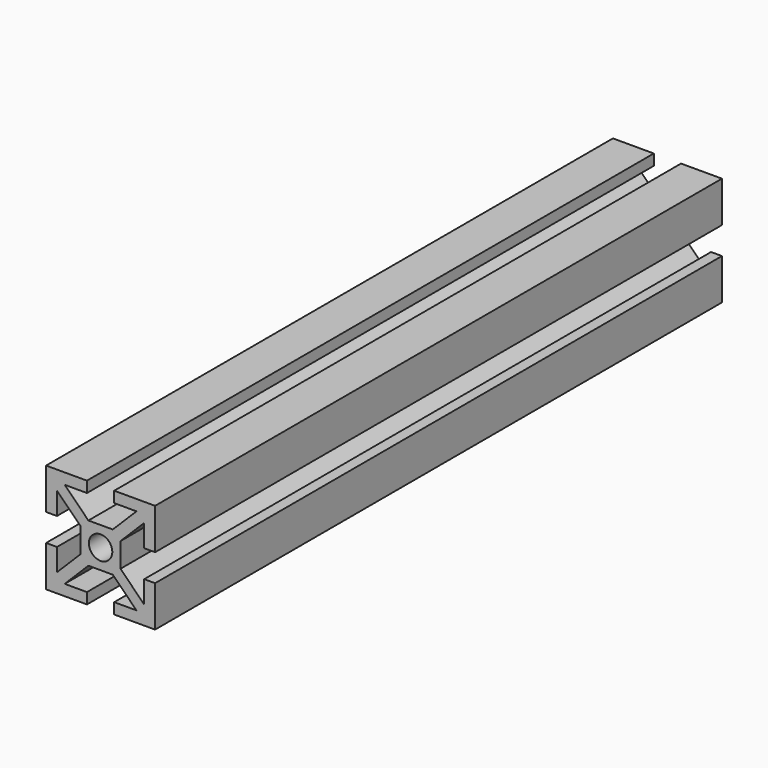
from build123d import *

# Parameters (mm, degrees)
F1_DEPTH      = 65
F1_DEPTH_BACK = 65


with BuildPart() as f1:
    # F0 (on Front) → F1 (new body, two sides)
    with BuildSketch(Plane.XZ) as f1_sk:
        Polygon((-2.238045, 9.768403), (-9.738045, 9.768403), (-9.738045, 2.268403), (-7.738045, 2.268403), (-7.738045, 6.35419), (-3.388045, 2.00419), (-3.388045, -0.231597), (-3.388045, -2.467383), (-7.738045, -6.817383), (-7.738045, -2.731597), (-9.738045, -2.731597), (-9.738045, -10.231597), (-2.238045, -10.231597), (-2.238045, -8.231597), (-6.323832, -8.231597), (-1.973832, -3.881597), (2.497741, -3.881597), (6.847741, -8.231597), (2.761955, -8.231597), (2.761955, -10.231597), (10.261955, -10.231597), (10.261955, -2.731597), (8.261955, -2.731597), (8.261955, -6.817383), (3.911955, -2.467383), (3.911955, -0.231597), (3.911955, 2.00419), (8.261955, 6.35419), (8.261955, 2.268403), (10.261955, 2.268403), (10.261955, 9.768403), (2.761955, 9.768403), (2.761955, 7.768403), (6.847741, 7.768403), (2.497741, 3.418403), (-1.973832, 3.418403), (-6.323832, 7.768403), (-2.238045, 7.768403), align=None)
        with BuildLine():
            ThreePointArc((-1.888045, -0.231597), (0.261955, 1.918403), (2.411955, -0.231597))
            ThreePointArc((2.411955, -0.231597), (0.261955, -2.381597), (-1.888045, -0.231597))
        make_face(mode=Mode.SUBTRACT)
    extrude(amount=F1_DEPTH)
    extrude(f1_sk.sketch, amount=-F1_DEPTH_BACK)


solid = f1.part
